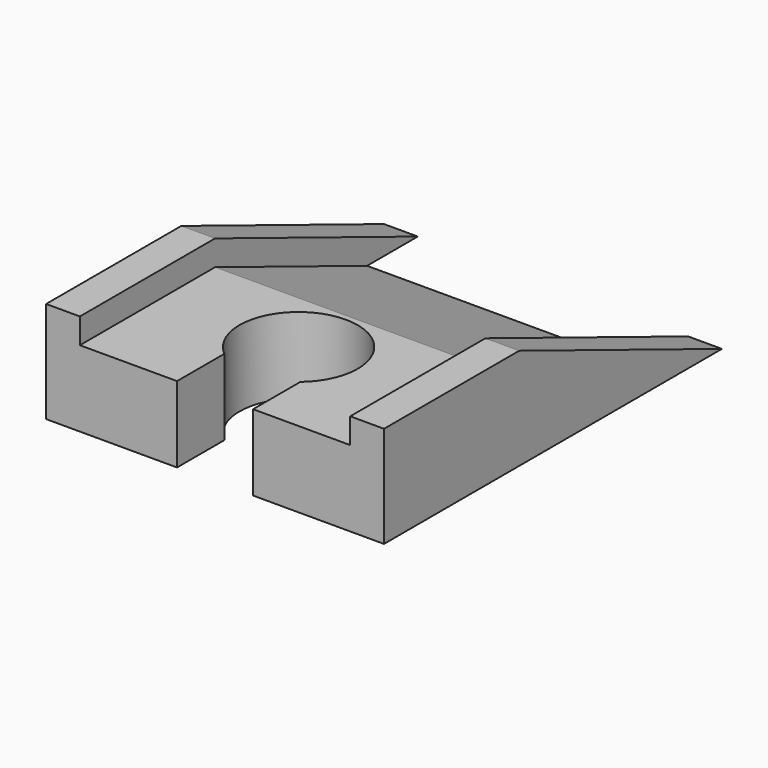
from build123d import *

# Parameters (mm, degrees)
POCKET_DEPTH         = 24.001
POCKET_DEPTH_BACK    = 0.001
SKETCH004_W          = 40
SKETCH004_H          = 12
POCKET001_DEPTH      = 50.001
POCKET001_DEPTH_BACK = 0.001


with BuildPart() as part:
    # AdditivePipe: sweep along a path in Sketch
    with BuildLine(Plane.YZ) as additivepipe_path:
        Line((0, 0), (20, 0))
        Line((20, 0), (50, -12))
    # Sketch001 → AdditivePipe (sweep)
    with BuildSketch(Plane.XZ):
        Polygon((-20, 6), (-20, -6), (20, -6), (20, 6), (16, 6), (16, 3), (9, 3), (-9, 3), (-16, 3), (-16, 6), align=None)
    sweep(path=additivepipe_path.line)

    # Sketch003 → Pocket (cut, two sides)
    with BuildSketch(Plane(origin=(0, 0, 6), x_dir=(-1, 0, 0), z_dir=(0, 0, 1))) as pocket_sk:
        with BuildLine():
            Line((-4.5, 0), (4.5, 0))
            Line((4.5, 0), (4.5, -7))
            ThreePointArc((-4.5, -7), (0, -19.361903), (4.5, -7))
            Line((-4.5, 0), (-4.5, -7))
        make_face()
    extrude(amount=-POCKET_DEPTH, mode=Mode.SUBTRACT)
    extrude(pocket_sk.sketch, amount=POCKET_DEPTH_BACK, mode=Mode.SUBTRACT)

    # Sketch004 → Pocket001 (cut, two sides)
    with BuildSketch(Plane.XZ) as pocket001_sk:
        with Locations((0, -12)):
            Rectangle(SKETCH004_W, SKETCH004_H)
    extrude(amount=-POCKET001_DEPTH, mode=Mode.SUBTRACT)
    extrude(pocket001_sk.sketch, amount=POCKET001_DEPTH_BACK, mode=Mode.SUBTRACT)


solid = part.part
